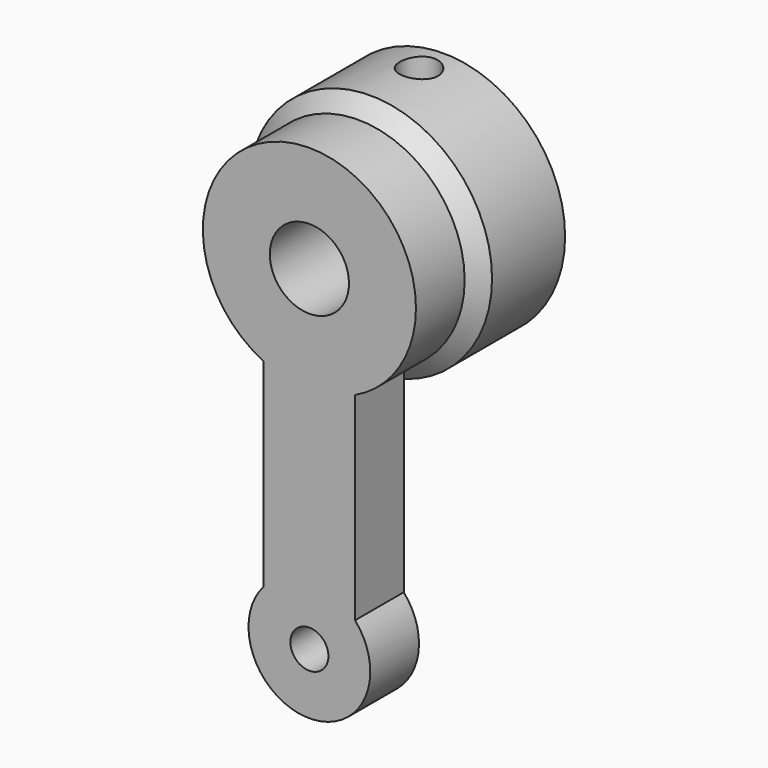
from build123d import *

# Parameters (mm, degrees)
CYLINDER968_R          = 1.25
CYLINDER968_DEPTH      = 4
CYLINDER968_ROLL_ANGLE = 90
CYLINDER972_R          = 1.25
CYLINDER972_DEPTH      = 7
CYLINDER970_R          = 2.6
CYLINDER970_DEPTH      = 11
CYLINDER970_ROLL_ANGLE = 90
CYLINDER969_R          = 5.6
CYLINDER969_DEPTH      = 4
CYLINDER969_ROLL_ANGLE = 90
CYLINDER971_R          = 8
CYLINDER971_DEPTH      = 6
CYLINDER971_ROLL_ANGLE = 90
CYLINDER964_R          = 7
CYLINDER964_DEPTH      = 6
CYLINDER964_ROLL_ANGLE = 90
CYLINDER965_R          = 4
CYLINDER965_DEPTH      = 4
CYLINDER965_ROLL_ANGLE = 90
BOX564_W               = 6
BOX564_H               = 4
BOX564_DEPTH           = 22
CHAMFER105_SIZE        = 0.999


with BuildPart() as cylinder1140:
    # Cylinder968 → Cylinder968 (new body)
    with BuildSketch(Plane.XY):
        Circle(CYLINDER968_R)
    extrude(amount=CYLINDER968_DEPTH)


with BuildPart() as cylinder1140_1:
    # Cylinder968 roll: moved
    add(cylinder1140.part.rotate(Axis((0, 0, 0), (1, 0, 0)), CYLINDER968_ROLL_ANGLE))


with BuildPart() as cylinder1140_2:
    # Cylinder968 placement: moved
    add(cylinder1140_1.part.moved(Location((37, 32.75, -33))))


with BuildPart() as cylinder1144:
    # Cylinder972 → Cylinder972 (new body)
    with BuildSketch(Plane(origin=(37, 37.75, -8), x_dir=(1, 0, 0), z_dir=(0, 0, 1))):
        Circle(CYLINDER972_R)
    extrude(amount=CYLINDER972_DEPTH)


with BuildPart() as cylinder1142:
    # Cylinder970 → Cylinder970 (new body)
    with BuildSketch(Plane.XY):
        Circle(CYLINDER970_R)
    extrude(amount=CYLINDER970_DEPTH)


with BuildPart() as cylinder1142_1:
    # Cylinder970 roll: moved
    add(cylinder1142.part.rotate(Axis((0, 0, 0), (1, 0, 0)), CYLINDER970_ROLL_ANGLE))


with BuildPart() as cylinder1142_2:
    # Cylinder970 placement: moved
    add(cylinder1142_1.part.moved(Location((37, 39.75, -11))))


with BuildPart() as fusion607:
    # Cylinder969 → Cylinder969 (new body)
    with BuildSketch(Plane.XY):
        Circle(CYLINDER969_R)
    extrude(amount=CYLINDER969_DEPTH)


with BuildPart() as fusion607_1:
    # Cylinder969 roll: moved
    add(fusion607.part.rotate(Axis((0, 0, 0), (1, 0, 0)), CYLINDER969_ROLL_ANGLE))


with BuildPart() as fusion607_2:
    # Cylinder969 placement: moved
    add(fusion607_1.part.moved(Location((37, 39.75, -11))))

    # Fusion607: union Cylinder1140, Cylinder1144, Cylinder1142
    add(cylinder1140_2.part)
    add(cylinder1144.part)
    add(cylinder1142_2.part)


with BuildPart() as cylinder1143:
    # Cylinder971 → Cylinder971 (new body)
    with BuildSketch(Plane.XY):
        Circle(CYLINDER971_R)
    extrude(amount=CYLINDER971_DEPTH)


with BuildPart() as cylinder1143_1:
    # Cylinder971 roll: moved
    add(cylinder1143.part.rotate(Axis((0, 0, 0), (1, 0, 0)), CYLINDER971_ROLL_ANGLE))


with BuildPart() as cylinder1143_2:
    # Cylinder971 placement: moved
    add(cylinder1143_1.part.moved(Location((37, 39.75, -11))))


with BuildPart() as cylinder1136:
    # Cylinder964 → Cylinder964 (new body)
    with BuildSketch(Plane.XY):
        Circle(CYLINDER964_R)
    extrude(amount=CYLINDER964_DEPTH)


with BuildPart() as cylinder1136_1:
    # Cylinder964 roll: moved
    add(cylinder1136.part.rotate(Axis((0, 0, 0), (1, 0, 0)), CYLINDER964_ROLL_ANGLE))


with BuildPart() as cylinder1136_2:
    # Cylinder964 placement: moved
    add(cylinder1136_1.part.moved(Location((37, 39.75, -11))))


with BuildPart() as cylinder1137:
    # Cylinder965 → Cylinder965 (new body)
    with BuildSketch(Plane.XY):
        Circle(CYLINDER965_R)
    extrude(amount=CYLINDER965_DEPTH)


with BuildPart() as cylinder1137_1:
    # Cylinder965 roll: moved
    add(cylinder1137.part.rotate(Axis((0, 0, 0), (1, 0, 0)), CYLINDER965_ROLL_ANGLE))


with BuildPart() as cylinder1137_2:
    # Cylinder965 placement: moved
    add(cylinder1137_1.part.moved(Location((37, 37.75, -33))))


with BuildPart() as front_axle_steering_arm:
    # Box564 → Box564 (new body)
    with BuildSketch(Plane(origin=(34, 33.75, -33), x_dir=(1, 0, 0), z_dir=(0, 0, 1))):
        with Locations((3, 2)):
            Rectangle(BOX564_W, BOX564_H)
    extrude(amount=BOX564_DEPTH)

    # Fusion608: union Cylinder1136, Cylinder1137
    add(cylinder1136_2.part)
    add(cylinder1137_2.part)


with BuildPart() as front_axle_steering_arm_1:
    # Fusion608 placement: moved
    add(front_axle_steering_arm.part.moved(Location((0, -5, 0))))

    # Fusion609: union Cylinder1143
    add(cylinder1143_2.part)

    # Cut703: cut Fusion607
    add(fusion607_2.part, mode=Mode.SUBTRACT)

    # Chamfer105
    chamfer105_edges = [front_axle_steering_arm_1.edges().sort_by_distance(p)[0] for p in [
        (30, 33.75, -11),
    ]]
    chamfer(chamfer105_edges, length=CHAMFER105_SIZE)


solid = front_axle_steering_arm_1.part
